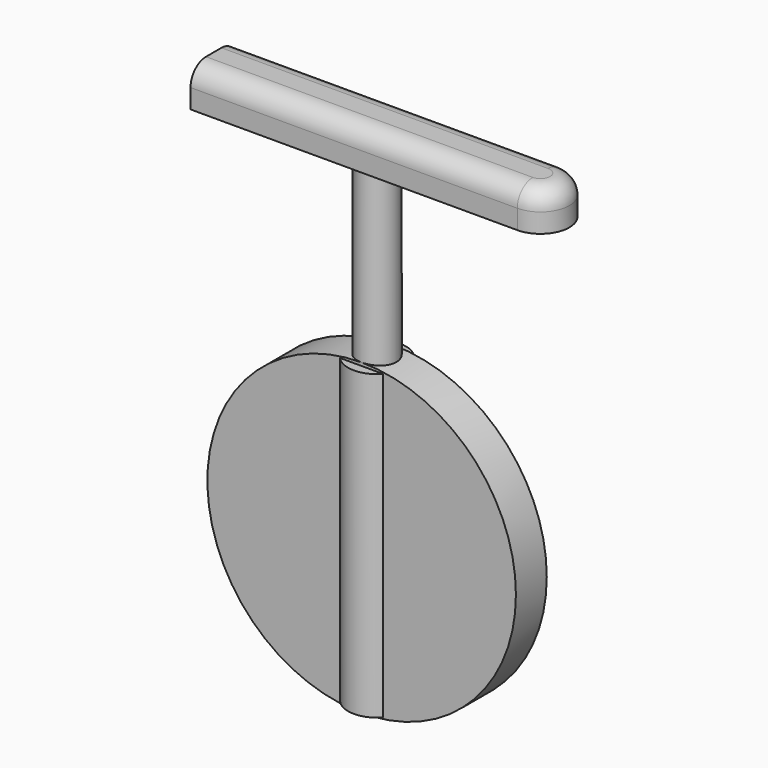
from build123d import *

# Parameters (mm, degrees)
F0_R          = 20
F1_DEPTH      = 2.5
F2_R          = 2.5
F3_DEPTH      = 42.5
F4_W          = 42.362636
F4_H          = 7.5
F5_DEPTH      = 5
F6_R          = 2.5
F7_R          = 3.75
F8_DEPTH      = 19.6
F8_DEPTH_BACK = 19.6


with BuildPart() as f1:
    # F0 (on Front) → F1 (new body, symmetric)
    with BuildSketch(Plane.XZ):
        Circle(F0_R)
    extrude(amount=F1_DEPTH, both=True)

    # F2 (on Top) → F3 (join)
    with BuildSketch(Plane.XY):
        Circle(F2_R)
    extrude(amount=F3_DEPTH)

    # F4 (on face) → F5 (join)
    with BuildSketch(Plane.XY.offset(42.5)):
        Rectangle(F4_W, F4_H)
        with BuildLine():
            ThreePointArc((21.181318, -3.75), (24.931318, 0), (21.181318, 3.75))
            Line((21.181318, 3.75), (21.181318, -3.75))
        make_face()
    extrude(amount=F5_DEPTH)

    # F6
    f6_edges = [f1.edges().sort_by_distance(p)[0] for p in [
        (0, 3.75, 47.5),
        (0, -3.75, 47.5),
        (24.931318, 0, 47.5),
    ]]
    fillet(f6_edges, radius=F6_R)

    # F7 (on Top) → F8 (join, two sides)
    with BuildSketch(Plane.XY) as f8_sk:
        Circle(F7_R)
    extrude(amount=F8_DEPTH)
    extrude(f8_sk.sketch, amount=-F8_DEPTH_BACK)


solid = f1.part
